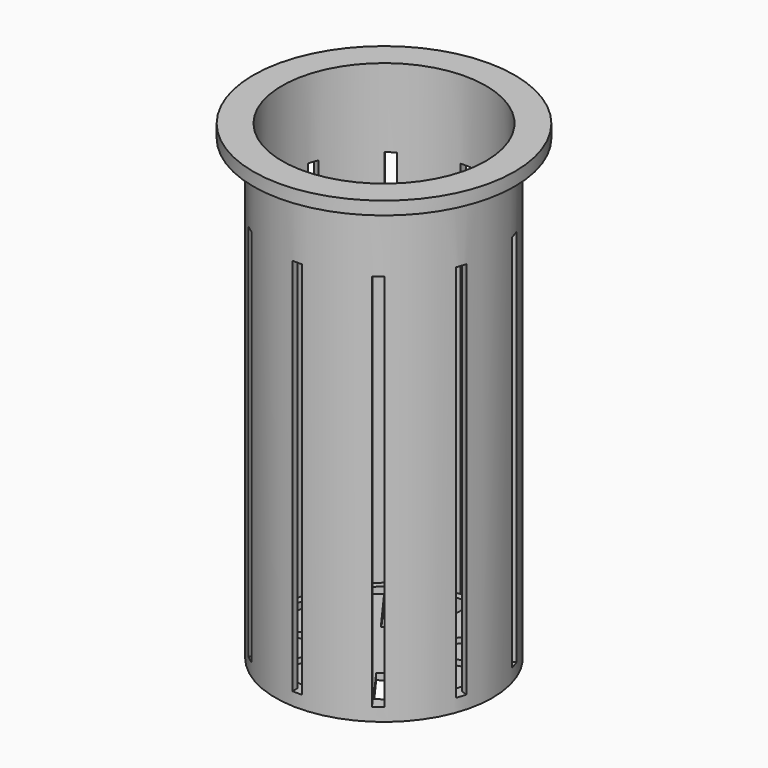
from build123d import *

# Parameters (mm, degrees)
F2_T     = -1.27
F3_DEPTH = 1.27
F5_R     = 19.685
F6_DEPTH = 25.4
F7_W     = 1.905
F7_H     = 19.812
F8_DEPTH = 76.2
F9_W     = 2.54
F9_H     = 2.54


with BuildPart() as f1:
    # F0 (on Front) → F1 (revolve)
    with BuildSketch(Plane.XZ):
        Polygon((0, 2.54), (0, 0), (21.082, 0), (21.082, 88.9), (0, 88.9), align=None)
        Polygon((0, 91.44), (0, 88.9), (21.082, 88.9), (25.4, 88.9), (25.4, 91.44), align=None)
    revolve(axis=Axis((0, 0, 44.45), (0, 0, 1)))

    # F2
    f2_openings = [f1.faces().sort_by_distance(p)[0] for p in [
        (0, 0, 91.44),
    ]]
    offset(amount=F2_T, openings=f2_openings, kind=Kind.INTERSECTION)

    # F3 (add): a face of the model
    f3_faces = [f1.faces().sort_by_distance(p)[0] for p in [
        (-23.4475005348, 0, 90.17),
    ]]
    extrude(f3_faces, amount=F3_DEPTH)

    # F5 (on offset) → F6 (cut)
    with BuildSketch(Plane.XY.offset(88.9)):
        Circle(F5_R)
    extrude(amount=F6_DEPTH, mode=Mode.SUBTRACT)

    # F7 (on Top) → F8 (cut)
    with BuildSketch(Plane.XY):
        Polygon((0.9525, -27.178), (0.9525, -7.366), (0, -7.366), (-0.9525, -7.366), (-0.9525, -27.178), align=None)
        Polygon((5.2068558942, -5.3647039539), (3.6656785199, -6.4844348595), (15.3108799383, -22.5126795521), (16.8520573126, -21.3929486464), align=None)
        Polygon((7.4723698113, -1.2449737892), (6.883692437, -3.0567364527), (25.7260241378, -9.1789811453), (26.3147015121, -7.3672184818), align=None)
        Polygon((6.883692437, 3.4195935956), (7.4723698113, 1.6078309321), (26.3147015121, 7.7300756246), (25.7260241378, 9.5418382882), align=None)
        Polygon((3.6656785199, 6.8472920024), (5.2068558942, 5.7275610967), (16.8520573126, 21.7558057893), (15.3108799383, 22.8755366949), align=None)
        with Locations((0, 17.6348571429)):
            Rectangle(F7_W, F7_H)
        Polygon((-5.2068558942, 5.7275610967), (-3.6656785199, 6.8472920024), (-15.3108799383, 22.8755366949), (-16.8520573126, 21.7558057893), align=None)
        Polygon((-7.4723698113, 1.6078309321), (-6.883692437, 3.4195935956), (-25.7260241378, 9.5418382882), (-26.3147015121, 7.7300756246), align=None)
        Polygon((-6.883692437, -3.0567364527), (-7.4723698113, -1.2449737892), (-26.3147015121, -7.3672184818), (-25.7260241378, -9.1789811453), align=None)
        Polygon((-3.6656785199, -6.4844348595), (-5.2068558942, -5.3647039539), (-16.8520573126, -21.3929486464), (-15.3108799383, -22.5126795521), align=None)
    extrude(amount=F8_DEPTH, mode=Mode.SUBTRACT)

    # F9 (on Front) → F10 (revolve)
    with BuildSketch(Plane.XZ):
        with Locations((19.812, 1.27)):
            Rectangle(F9_W, F9_H)
    revolve(axis=Axis((0, 0, 1.27), (0, 0, 1)))


solid = f1.part
